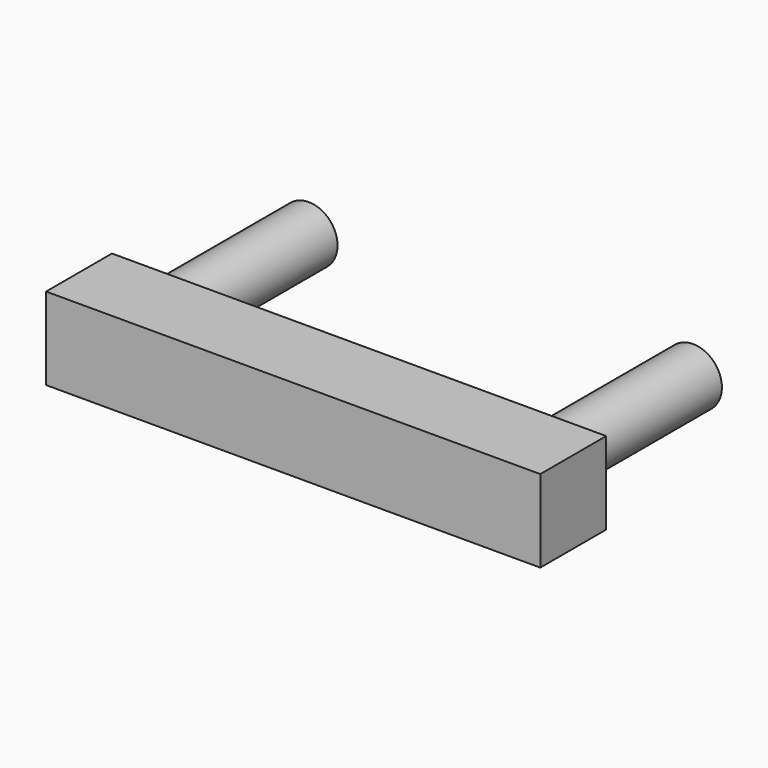
from build123d import *

# Parameters (mm, degrees)
F0_W     = 45.72
F0_H     = 7.62
F1_DEPTH = 7.62
F2_R     = 2.667
F3_DEPTH = 24.13


with BuildPart() as f1:
    # F0 (on Front) → F1 (new body)
    with BuildSketch(Plane.XZ):
        with Locations((-2.573406, 0.010389)):
            Rectangle(F0_W, F0_H)
    extrude(amount=F1_DEPTH)

    # F2 (on face) → F3 (join)
    with BuildSketch(Plane.XZ.offset(7.62)):
        with Locations((-20.440888, 0.258593)):
            Circle(F2_R)
        with Locations((15.119112, 0.258593)):
            Circle(F2_R)
    extrude(amount=-F3_DEPTH)


solid = f1.part
